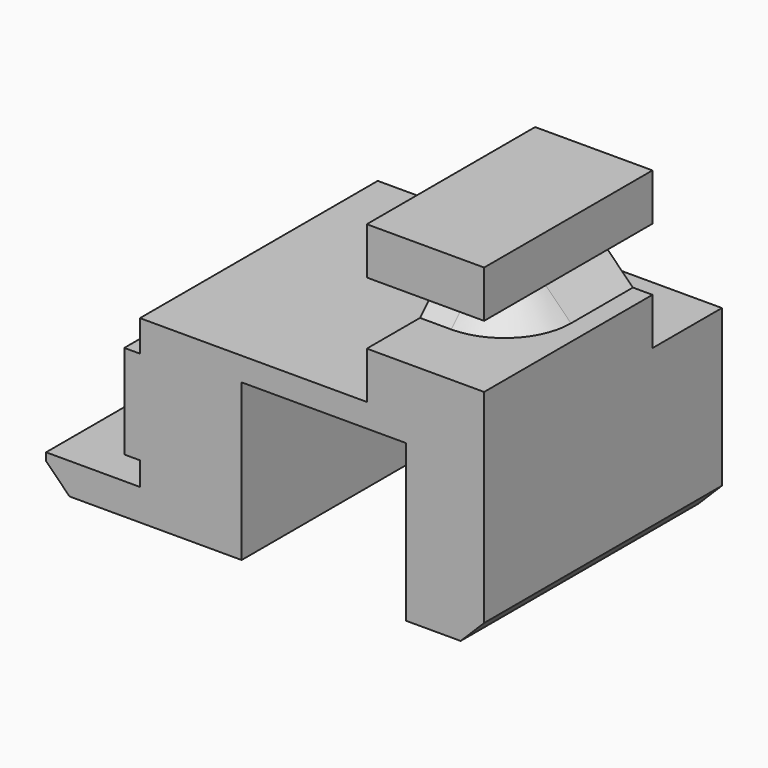
from build123d import *

# Parameters (mm, degrees)
F1_DEPTH  = 60
F2_W      = 100
F2_H      = 100
F3_DEPTH  = 22
F5_DEPTH  = 11.1
F6_W      = 15
F6_H      = 8
F7_DEPTH  = 12
F8_W      = 6
F8_H      = 8
F9_DEPTH  = 60.001
F10_W     = 2
F10_H     = 3
F10_H_2   = 4
F11_DEPTH = 60.001
F12_W     = 30
F12_H     = 15
F13_DEPTH = 22
F14_SIZE  = 3
F15_R     = 5
F16_SIZE  = 3.5


with BuildPart() as f1:
    # F0 (on Front) → F1 (new body)
    with BuildSketch(Plane.XZ):
        Polygon((0, 4), (0, 0), (25, 0), (25, 20), (46, 20), (46, 0), (56, 0), (56, 43), (41, 43), (41, 23), (10, 23), (10, 4), align=None)
    extrude(amount=-F1_DEPTH)

    # F2 (on face) → F3 (cut)
    with BuildSketch(Plane(origin=(0, 60, 0), x_dir=(-1, 0, 0), z_dir=(0, 1, 0))):
        with Locations((-50, 54)):
            Rectangle(F2_W, F2_H)
    extrude(amount=-F3_DEPTH, mode=Mode.SUBTRACT)

    # F4 (on face) → F5 (cut)
    with BuildSketch(Plane(origin=(0, 38, 0), x_dir=(-1, 0, 0), z_dir=(0, 1, 0))):
        Polygon((-110, 23), (-41, 23), (-10, 23), (-10, 123), (-110, 123), align=None)
    extrude(amount=-F5_DEPTH, mode=Mode.SUBTRACT)

    # F6 (on Front) → F7 (cut)
    with BuildSketch(Plane.XZ):
        with Locations((48.5, 33)):
            Rectangle(F6_W, F6_H)
    extrude(amount=-F7_DEPTH, mode=Mode.SUBTRACT)

    # F8 (on Front) → F9 (cut, through all)
    with BuildSketch(Plane.XZ):
        with Locations((53, 33)):
            Rectangle(F8_W, F8_H)
    extrude(amount=-F9_DEPTH, mode=Mode.SUBTRACT)

    # F10 (on Front) → F11 (cut, through all)
    with BuildSketch(Plane.XZ):
        with Locations((11, 5.5)):
            Rectangle(F10_W, F10_H)
        with Locations((11, 21)):
            Rectangle(F10_W, F10_H_2)
    extrude(amount=-F11_DEPTH, mode=Mode.SUBTRACT)

    # F12 (on face) → F13 (cut, through all)
    with BuildSketch(Plane(origin=(0, 60, 0), x_dir=(-1, 0, 0), z_dir=(0, 1, 0))):
        with Locations((-45, 7.5)):
            Rectangle(F12_W, F12_H)
    extrude(amount=-F13_DEPTH, mode=Mode.SUBTRACT)

    # F14
    f14_edges = [f1.edges().sort_by_distance(p)[0] for p in [
        (56, 19, 0),
        (0, 30, 0),
    ]]
    chamfer(f14_edges, length=F14_SIZE)

    # F15
    f15_edges = [f1.edges().sort_by_distance(p)[0] for p in [
        (50, 12, 33),
    ]]
    fillet(f15_edges, radius=F15_R)

    # F16
    f16_edges = [f1.edges().sort_by_distance(p)[0] for p in [
        (43, 12, 37),
        (43, 12, 29),
    ]]
    chamfer(f16_edges, length=F16_SIZE)


solid = f1.part
